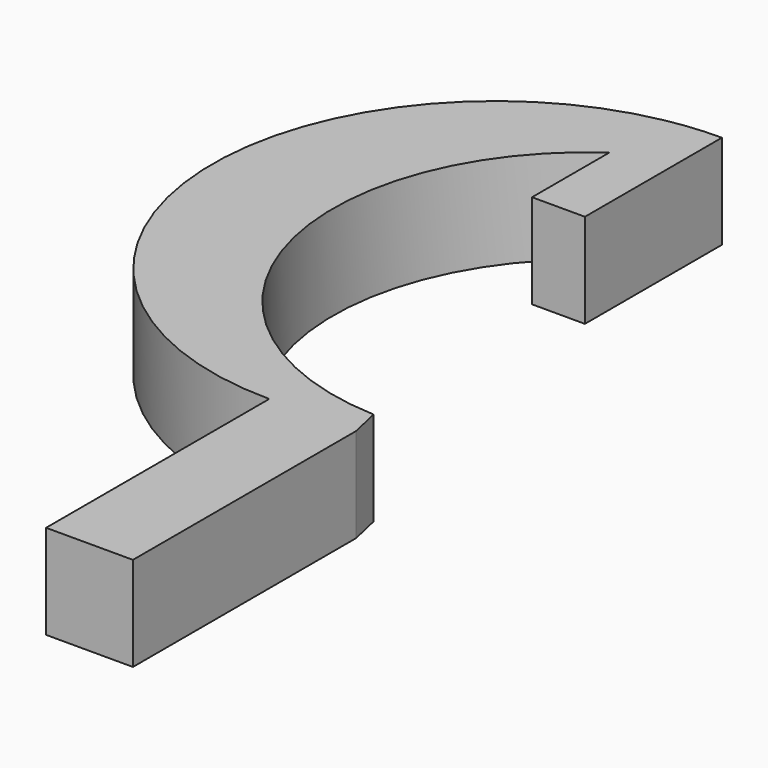
from build123d import *

# Parameters (mm, degrees)
F1_DEPTH = 5


with BuildPart() as f1:
    # F0 (on Top) → F1 (new body)
    with BuildSketch(Plane.XY):
        with BuildLine():
            Line((-2.80428, 11.038499), (-2.80428, 14.735536))
            ThreePointArc((-2.80428, 14.735536), (-14.933738, -1.408361), (0, -15))
            Line((0, -15), (0, -29.789679))
            Line((0, -29.789679), (4.604714, -29.789679))
            Line((4.604714, -29.789679), (4.604714, -15))
            Line((4.604714, -15), (4.239221, -13.388641))
            ThreePointArc((4.239221, -13.388641), (-8.082837, -3.712616), (-2.80428, 11.038499))
        make_face()
        with BuildLine():
            Line((0, 5.920346), (0, 15))
            ThreePointArc((0, 15), (-1.408361, 14.933738), (-2.80428, 14.735536))
            Line((-2.80428, 14.735536), (-2.80428, 11.038499))
            Line((-2.80428, 11.038499), (-2.80428, 5.920346))
            Line((-2.80428, 5.920346), (0, 5.920346))
        make_face()
    extrude(amount=F1_DEPTH)


solid = f1.part
